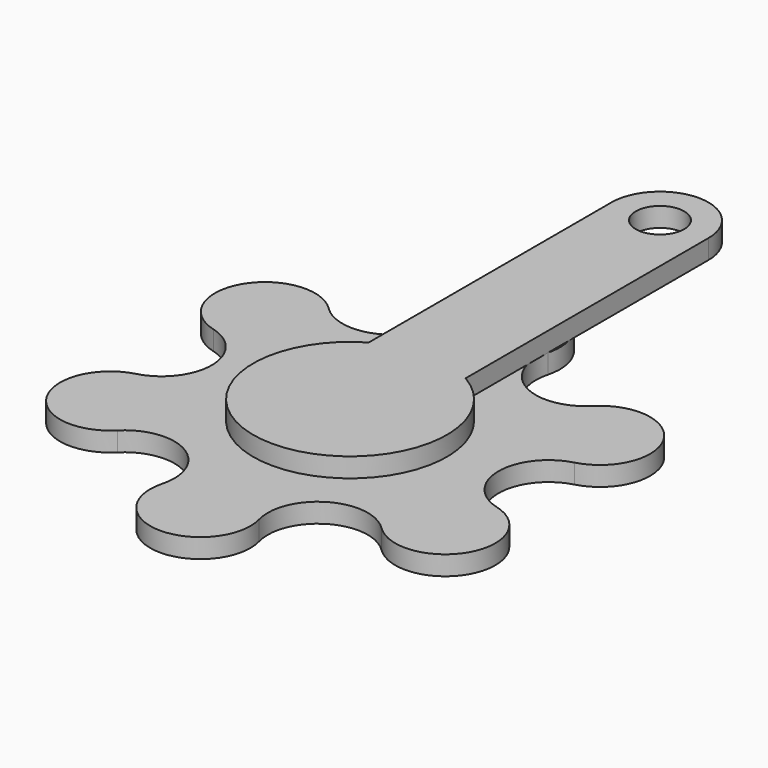
from build123d import *

# Parameters (mm, degrees)
F1_DEPTH = 2
F2_R     = 10
F3_DEPTH = 2
F4_R     = 2.5
F5_DEPTH = 2


with BuildPart() as f1:
    # F0 (on Top) → F1 (new body)
    with BuildSketch(Plane.XY):
        with BuildLine():
            ThreePointArc((-4.993837, 19.290927), (-7.402673, 13.475481), (-13.643415, 14.297091))
            ThreePointArc((-13.643415, 14.297091), (-21.776508, 13.226349), (-18.637252, 5.647512))
            ThreePointArc((-18.637252, 5.647512), (-14.805346, 0.653676), (-18.637252, -4.340161))
            ThreePointArc((-18.637252, -4.340161), (-21.776508, -11.918997), (-13.643415, -12.989739))
            ThreePointArc((-13.643415, -12.989739), (-7.402673, -12.16813), (-4.993837, -17.983576))
            ThreePointArc((-4.993837, -17.983576), (0, -24.49167), (4.993837, -17.983576))
            ThreePointArc((4.993837, -17.983576), (7.402673, -12.16813), (13.643415, -12.989739))
            ThreePointArc((13.643415, -12.989739), (21.776508, -11.918997), (18.637252, -4.340161))
            ThreePointArc((18.637252, -4.340161), (14.805346, 0.653676), (18.637252, 5.647512))
            ThreePointArc((18.637252, 5.647512), (21.776508, 13.226349), (13.643415, 14.297091))
            ThreePointArc((13.643415, 14.297091), (7.402673, 13.475481), (4.993837, 19.290927))
            ThreePointArc((4.993837, 19.290927), (0, 25.799022), (-4.993837, 19.290927))
        make_face()
    extrude(amount=F1_DEPTH)

    # F2 (on face) → F3 (join)
    with BuildSketch(Plane.XY.offset(2)):
        Circle(F2_R)
    extrude(amount=F3_DEPTH)

    # F4 (on face) → F5 (join)
    with BuildSketch(Plane.XY.offset(4)):
        with BuildLine():
            Line((-5, 0), (0, 0))
            Line((0, 0), (5, 0))
            Line((5, 0), (5, 40))
            ThreePointArc((5, 40), (0, 45), (-5, 40))
            Line((-5, 40), (-5, 0))
        make_face()
        with Locations((0, 40)):
            Circle(F4_R, mode=Mode.SUBTRACT)
    extrude(amount=-F5_DEPTH)


solid = f1.part
